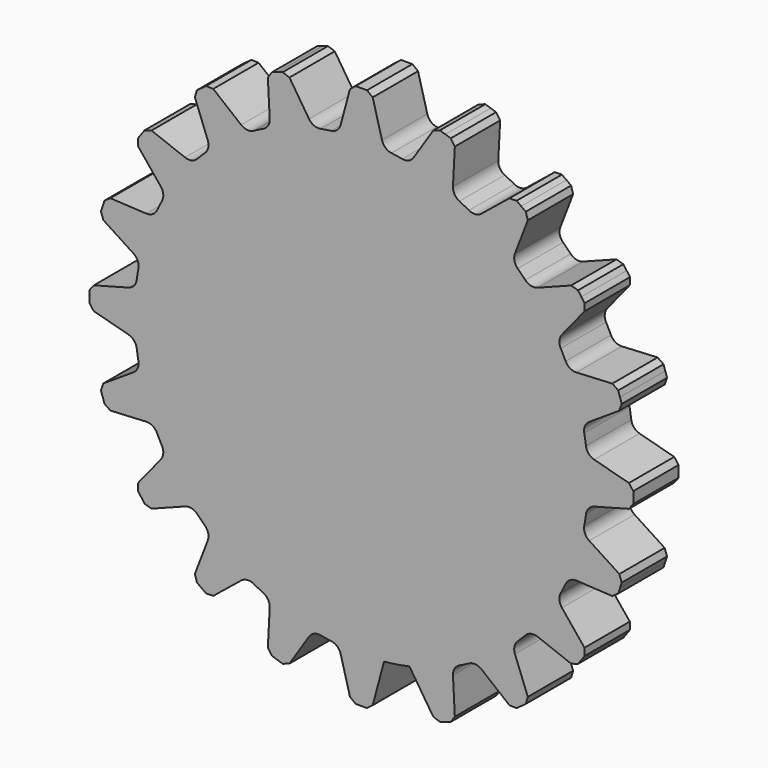
from build123d import *

# Parameters (mm, degrees)
F1_DEPTH = 12.5
F2_SIZE  = 2
F3_R     = 5
F4_SIZE  = 2
F5_R     = 5


with BuildPart() as f1:
    # F0 (on Front) → F1 (new body, symmetric)
    with BuildSketch(Plane.XZ):
        with BuildLine():
            ThreePointArc((99.499436, -9.99311), (99.874781, -5.002819), (100, 0))
            ThreePointArc((100, 0), (99.874781, 5.002819), (99.499436, 9.99311))
            ThreePointArc((99.499436, 9.99311), (98.768834, 15.643447), (97.717628, 21.243005))
            ThreePointArc((97.717628, 21.243005), (95.105652, 30.901699), (91.541546, 40.251029))
            ThreePointArc((91.541546, 40.251029), (89.100652, 45.39905), (86.370537, 50.399706))
            ThreePointArc((86.370537, 50.399706), (80.901699, 58.778525), (74.622932, 66.568897))
            ThreePointArc((74.622932, 66.568897), (70.710678, 70.710678), (66.568897, 74.622932))
            ThreePointArc((66.568897, 74.622932), (58.778525, 80.901699), (50.399706, 86.370537))
            ThreePointArc((50.399706, 86.370537), (45.39905, 89.100652), (40.251029, 91.541546))
            ThreePointArc((40.251029, 91.541546), (30.901699, 95.105652), (21.243005, 97.717628))
            ThreePointArc((21.243005, 97.717628), (15.643447, 98.768834), (9.99311, 99.499436))
            ThreePointArc((9.99311, 99.499436), (0, 100), (-9.99311, 99.499436))
            ThreePointArc((-9.99311, 99.499436), (-15.643447, 98.768834), (-21.243005, 97.717628))
            ThreePointArc((-21.243005, 97.717628), (-30.901699, 95.105652), (-40.251029, 91.541546))
            ThreePointArc((-40.251029, 91.541546), (-45.39905, 89.100652), (-50.399706, 86.370537))
            ThreePointArc((-50.399706, 86.370537), (-58.778525, 80.901699), (-66.568897, 74.622932))
            ThreePointArc((-66.568897, 74.622932), (-70.710678, 70.710678), (-74.622932, 66.568897))
            ThreePointArc((-74.622932, 66.568897), (-80.901699, 58.778525), (-86.370537, 50.399706))
            ThreePointArc((-86.370537, 50.399706), (-89.100652, 45.39905), (-91.541546, 40.251029))
            ThreePointArc((-91.541546, 40.251029), (-95.105652, 30.901699), (-97.717628, 21.243005))
            ThreePointArc((-97.717628, 21.243005), (-98.768834, 15.643447), (-99.499436, 9.99311))
            ThreePointArc((-99.499436, 9.99311), (-100, 0), (-99.499436, -9.99311))
            ThreePointArc((-99.499436, -9.99311), (-98.768834, -15.643447), (-97.717628, -21.243005))
            ThreePointArc((-97.717628, -21.243005), (-95.105652, -30.901699), (-91.541546, -40.251029))
            ThreePointArc((-91.541546, -40.251029), (-89.100652, -45.39905), (-86.370537, -50.399706))
            ThreePointArc((-86.370537, -50.399706), (-80.901699, -58.778525), (-74.622932, -66.568897))
            ThreePointArc((-74.622932, -66.568897), (-70.710678, -70.710678), (-66.568897, -74.622932))
            ThreePointArc((-66.568897, -74.622932), (-58.778525, -80.901699), (-50.399706, -86.370537))
            ThreePointArc((-50.399706, -86.370537), (-45.39905, -89.100652), (-40.251029, -91.541546))
            ThreePointArc((-40.251029, -91.541546), (-30.901699, -95.105652), (-21.243005, -97.717628))
            ThreePointArc((-21.243005, -97.717628), (-15.643447, -98.768834), (-9.99311, -99.499436))
            ThreePointArc((-9.99311, -99.499436), (0, -100), (9.99311, -99.499436))
            ThreePointArc((9.99311, -99.499436), (15.643447, -98.768834), (21.243005, -97.717628))
            ThreePointArc((21.243005, -97.717628), (30.901699, -95.105652), (40.251029, -91.541546))
            ThreePointArc((40.251029, -91.541546), (45.39905, -89.100652), (50.399706, -86.370537))
            ThreePointArc((50.399706, -86.370537), (58.778525, -80.901699), (66.568897, -74.622932))
            ThreePointArc((66.568897, -74.622932), (70.710678, -70.710678), (74.622932, -66.568897))
            ThreePointArc((74.622932, -66.568897), (80.901699, -58.778525), (86.370537, -50.399706))
            ThreePointArc((86.370537, -50.399706), (89.100652, -45.39905), (91.541546, -40.251029))
            ThreePointArc((91.541546, -40.251029), (95.105652, -30.901699), (97.717628, -21.243005))
            ThreePointArc((97.717628, -21.243005), (98.768834, -15.643447), (99.499436, -9.99311))
        make_face()
        with BuildLine():
            ThreePointArc((-40.251029, 91.541546), (-30.901699, 95.105652), (-21.243005, 97.717628))
            Line((-21.243005, 97.717628), (-32.802285, 115.517358))
            Line((-32.802285, 115.517358), (-37.082039, 114.126782))
            Line((-37.082039, 114.126782), (-41.361794, 112.736205))
            Line((-41.361794, 112.736205), (-40.251029, 91.541546))
        make_face()
        with BuildLine():
            ThreePointArc((-9.99311, 99.499436), (0, 100), (9.99311, 99.499436))
            Line((9.99311, 99.499436), (4.5, 120))
            Line((4.5, 120), (0, 120))
            Line((0, 120), (-4.5, 120))
            Line((-4.5, 120), (-9.99311, 99.499436))
        make_face()
        with BuildLine():
            ThreePointArc((21.243005, 97.717628), (30.901699, 95.105652), (40.251029, 91.541546))
            Line((40.251029, 91.541546), (41.361794, 112.736205))
            Line((41.361794, 112.736205), (37.082039, 114.126782))
            Line((37.082039, 114.126782), (32.802285, 115.517358))
            Line((32.802285, 115.517358), (21.243005, 97.717628))
        make_face()
        with BuildLine():
            ThreePointArc((50.399706, 86.370537), (58.778525, 80.901699), (66.568897, 74.622932))
            Line((66.568897, 74.622932), (74.174807, 94.437006))
            Line((74.174807, 94.437006), (70.53423, 97.082039))
            Line((70.53423, 97.082039), (66.893654, 99.727073))
            Line((66.893654, 99.727073), (50.399706, 86.370537))
        make_face()
        with BuildLine():
            ThreePointArc((74.622932, 66.568897), (80.901699, 58.778525), (86.370537, 50.399706))
            Line((86.370537, 50.399706), (99.727073, 66.893654))
            Line((99.727073, 66.893654), (97.082039, 70.53423))
            Line((97.082039, 70.53423), (94.437006, 74.174807))
            Line((94.437006, 74.174807), (74.622932, 66.568897))
        make_face()
        with BuildLine():
            ThreePointArc((91.541546, 40.251029), (95.105652, 30.901699), (97.717628, 21.243005))
            Line((97.717628, 21.243005), (115.517358, 32.802285))
            Line((115.517358, 32.802285), (114.126782, 37.082039))
            Line((114.126782, 37.082039), (112.736205, 41.361794))
            Line((112.736205, 41.361794), (91.541546, 40.251029))
        make_face()
        with BuildLine():
            ThreePointArc((99.499436, 9.99311), (99.874781, 5.002819), (100, 0))
            ThreePointArc((100, 0), (99.874781, -5.002819), (99.499436, -9.99311))
            Line((99.499436, -9.99311), (120, -4.5))
            Line((120, -4.5), (120, 0))
            Line((120, 0), (120, 4.5))
            Line((120, 4.5), (99.499436, 9.99311))
        make_face()
        with BuildLine():
            Line((115.517358, -32.802285), (97.717628, -21.243005))
            ThreePointArc((97.717628, -21.243005), (95.105652, -30.901699), (91.541546, -40.251029))
            Line((91.541546, -40.251029), (112.736205, -41.361794))
            Line((112.736205, -41.361794), (114.126782, -37.082039))
            Line((114.126782, -37.082039), (115.517358, -32.802285))
        make_face()
        with BuildLine():
            Line((99.727073, -66.893654), (86.370537, -50.399706))
            ThreePointArc((86.370537, -50.399706), (80.901699, -58.778525), (74.622932, -66.568897))
            Line((74.622932, -66.568897), (94.437006, -74.174807))
            Line((94.437006, -74.174807), (97.082039, -70.53423))
            Line((97.082039, -70.53423), (99.727073, -66.893654))
        make_face()
        with BuildLine():
            Line((74.174807, -94.437006), (66.568897, -74.622932))
            ThreePointArc((66.568897, -74.622932), (58.778525, -80.901699), (50.399706, -86.370537))
            Line((50.399706, -86.370537), (66.893654, -99.727073))
            Line((66.893654, -99.727073), (70.53423, -97.082039))
            Line((70.53423, -97.082039), (74.174807, -94.437006))
        make_face()
        with BuildLine():
            Line((41.361794, -112.736205), (40.251029, -91.541546))
            ThreePointArc((40.251029, -91.541546), (30.901699, -95.105652), (21.243005, -97.717628))
            Line((21.243005, -97.717628), (32.802285, -115.517358))
            Line((32.802285, -115.517358), (37.082039, -114.126782))
            Line((37.082039, -114.126782), (41.361794, -112.736205))
        make_face()
        with BuildLine():
            Line((4.5, -120), (9.99311, -99.499436))
            ThreePointArc((9.99311, -99.499436), (0, -100), (-9.99311, -99.499436))
            Line((-9.99311, -99.499436), (-4.5, -120))
            Line((-4.5, -120), (0, -120))
            Line((0, -120), (4.5, -120))
        make_face()
        with BuildLine():
            Line((-32.802285, -115.517358), (-21.243005, -97.717628))
            ThreePointArc((-21.243005, -97.717628), (-30.901699, -95.105652), (-40.251029, -91.541546))
            Line((-40.251029, -91.541546), (-41.361794, -112.736205))
            Line((-41.361794, -112.736205), (-37.082039, -114.126782))
            Line((-37.082039, -114.126782), (-32.802285, -115.517358))
        make_face()
        with BuildLine():
            Line((-66.893654, -99.727073), (-50.399706, -86.370537))
            ThreePointArc((-50.399706, -86.370537), (-58.778525, -80.901699), (-66.568897, -74.622932))
            Line((-66.568897, -74.622932), (-74.174807, -94.437006))
            Line((-74.174807, -94.437006), (-70.53423, -97.082039))
            Line((-70.53423, -97.082039), (-66.893654, -99.727073))
        make_face()
        with BuildLine():
            Line((-94.437006, -74.174807), (-74.622932, -66.568897))
            ThreePointArc((-74.622932, -66.568897), (-80.901699, -58.778525), (-86.370537, -50.399706))
            Line((-86.370537, -50.399706), (-99.727073, -66.893654))
            Line((-99.727073, -66.893654), (-97.082039, -70.53423))
            Line((-97.082039, -70.53423), (-94.437006, -74.174807))
        make_face()
        with BuildLine():
            Line((-112.736205, -41.361794), (-91.541546, -40.251029))
            ThreePointArc((-91.541546, -40.251029), (-95.105652, -30.901699), (-97.717628, -21.243005))
            Line((-97.717628, -21.243005), (-115.517358, -32.802285))
            Line((-115.517358, -32.802285), (-114.126782, -37.082039))
            Line((-114.126782, -37.082039), (-112.736205, -41.361794))
        make_face()
        with BuildLine():
            ThreePointArc((-99.499436, -9.99311), (-100, 0), (-99.499436, 9.99311))
            Line((-99.499436, 9.99311), (-120, 4.5))
            Line((-120, 4.5), (-120, 0))
            Line((-120, 0), (-120, -4.5))
            Line((-120, -4.5), (-99.499436, -9.99311))
        make_face()
        with BuildLine():
            ThreePointArc((-97.717628, 21.243005), (-95.105652, 30.901699), (-91.541546, 40.251029))
            Line((-91.541546, 40.251029), (-112.736205, 41.361794))
            Line((-112.736205, 41.361794), (-114.126782, 37.082039))
            Line((-114.126782, 37.082039), (-115.517358, 32.802285))
            Line((-115.517358, 32.802285), (-97.717628, 21.243005))
        make_face()
        with BuildLine():
            ThreePointArc((-86.370537, 50.399706), (-80.901699, 58.778525), (-74.622932, 66.568897))
            Line((-74.622932, 66.568897), (-94.437006, 74.174807))
            Line((-94.437006, 74.174807), (-97.082039, 70.53423))
            Line((-97.082039, 70.53423), (-99.727073, 66.893654))
            Line((-99.727073, 66.893654), (-86.370537, 50.399706))
        make_face()
        with BuildLine():
            ThreePointArc((-66.568897, 74.622932), (-58.778525, 80.901699), (-50.399706, 86.370537))
            Line((-50.399706, 86.370537), (-66.893654, 99.727073))
            Line((-66.893654, 99.727073), (-70.53423, 97.082039))
            Line((-70.53423, 97.082039), (-74.174807, 94.437006))
            Line((-74.174807, 94.437006), (-66.568897, 74.622932))
        make_face()
    extrude(amount=F1_DEPTH, both=True)

    # F2
    f2_edges = [f1.edges().sort_by_distance(p)[0] for p in [
        (120, 0, -4.5),
        (120, 0, 4.5),
    ]]
    chamfer(f2_edges, length=F2_SIZE)

    # F3
    f3_edges = [f1.edges().sort_by_distance(p)[0] for p in [
        (99.499436, 0, 9.99311),
        (97.717628, 0, 21.243005),
    ]]
    fillet(f3_edges, radius=F3_R)

    # F4
    f4_edges = [f1.edges().sort_by_distance(p)[0] for p in [
        (115.517358, 0, -32.802285),
        (112.736205, 0, -41.361794),
        (99.727073, 0, -66.893654),
        (94.437006, 0, -74.174807),
        (74.174807, 0, -94.437006),
        (66.893654, 0, -99.727073),
        (41.361794, 0, -112.736205),
        (32.802285, 0, -115.517358),
        (4.5, 0, -120),
        (-4.5, 0, -120),
        (-32.802285, 0, -115.517358),
        (-41.361794, 0, -112.736205),
        (-66.893654, 0, -99.727073),
        (-74.174807, 0, -94.437006),
        (-94.437006, 0, -74.174807),
        (-99.727073, 0, -66.893654),
        (-112.736205, 0, -41.361794),
        (-115.517358, 0, -32.802285),
        (-120, 0, -4.5),
        (-120, 0, 4.5),
        (-115.517358, 0, 32.802285),
        (-112.736205, 0, 41.361794),
        (-99.727073, 0, 66.893654),
        (-94.437006, 0, 74.174807),
        (-74.174807, 0, 94.437006),
        (-66.893654, 0, 99.727073),
        (-41.361794, 0, 112.736205),
        (-32.802285, 0, 115.517358),
        (-4.5, 0, 120),
        (4.5, 0, 120),
        (32.802285, 0, 115.517358),
        (41.361794, 0, 112.736205),
        (66.893654, 0, 99.727073),
        (74.174807, 0, 94.437006),
        (94.437006, 0, 74.174807),
        (99.727073, 0, 66.893654),
        (112.736205, 0, 41.361794),
        (115.517358, 0, 32.802285),
    ]]
    chamfer(f4_edges, length=F4_SIZE)

    # F5
    f5_edges = [f1.edges().sort_by_distance(p)[0] for p in [
        (86.370537, 0, 50.399706),
        (91.541546, 0, 40.251029),
        (99.499436, 0, -9.99311),
        (97.717628, 0, -21.243005),
        (91.541546, 0, -40.251029),
        (86.370537, 0, -50.399706),
        (74.622932, 0, -66.568897),
        (66.568897, 0, -74.622932),
        (50.399706, 0, -86.370537),
        (40.251029, 0, -91.541546),
        (-9.99311, 0, -99.499436),
        (-21.243005, 0, -97.717628),
        (-40.251029, 0, -91.541546),
        (-50.399706, 0, -86.370537),
        (-66.568897, 0, -74.622932),
        (-74.622932, 0, -66.568897),
        (-86.370537, 0, -50.399706),
        (-91.541546, 0, -40.251029),
        (-97.717628, 0, -21.243005),
        (-99.499436, 0, -9.99311),
        (-99.499436, 0, 9.99311),
        (-97.717628, 0, 21.243005),
        (-91.541546, 0, 40.251029),
        (-86.370537, 0, 50.399706),
        (-74.622932, 0, 66.568897),
        (-66.568897, 0, 74.622932),
        (-50.399706, 0, 86.370537),
        (-40.251029, 0, 91.541546),
        (-21.243005, 0, 97.717628),
        (-9.99311, 0, 99.499436),
        (9.99311, 0, 99.499436),
        (21.243005, 0, 97.717628),
        (40.251029, 0, 91.541546),
        (50.399706, 0, 86.370537),
        (66.568897, 0, 74.622932),
        (74.622932, 0, 66.568897),
    ]]
    fillet(f5_edges, radius=F5_R)


solid = f1.part
